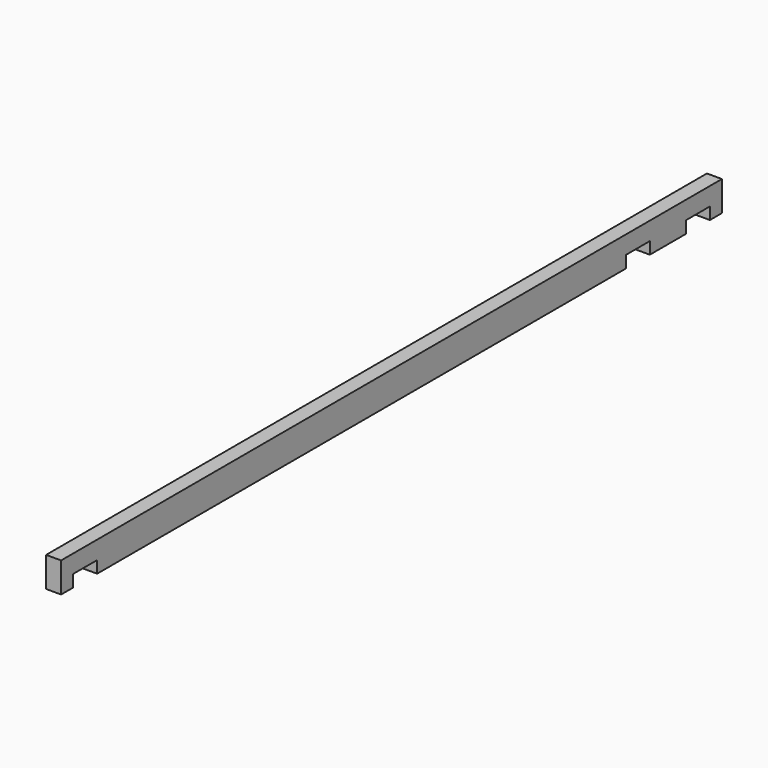
from build123d import *

# Parameters (mm, degrees)
F1_DEPTH = 5


with BuildPart() as f1:
    # F0 (on Right) → F1 (new body)
    with BuildSketch(Plane.YZ):
        Polygon((-111.062274, 4), (-111.062274, 0), (108.937726, 0), (108.937726, 4), (118.937726, 4), (118.937726, 0), (133.937726, 0), (133.937726, 4), (143.937726, 4), (143.937726, 0), (148.937726, 0), (148.937726, 10), (-126.062274, 10), (-126.062274, 0), (-121.062274, 0), (-121.062274, 4), align=None)
    extrude(amount=F1_DEPTH)


solid = f1.part
